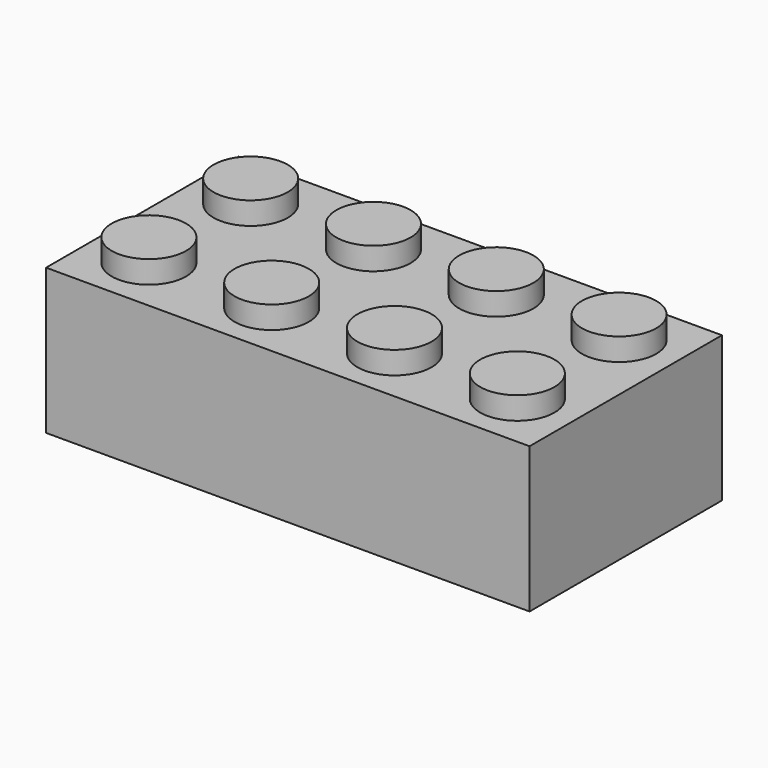
from build123d import *

# Parameters (mm, degrees)
F0_W     = 31.77
F0_H     = 15.8
F0_R     = 3.215
F0_R_2   = 2.325
F1_DEPTH = 9.56
F2_DEPTH = 8.39
F3_DEPTH = 1.17
F4_R     = 2.44
F5_DEPTH = 1.48


with BuildPart() as f1:
    # F0 (on Top) → F1 (new body)
    with BuildSketch(Plane.XY):
        with Locations((2.730887816, 14.921668646)):
            Rectangle(F0_W, F0_H)
        Polygon((2.360887816, 8.191668646), (-11.984112184, 8.191668646), (-11.984112184, 21.651668646), (2.360887816, 21.651668646), (3.100887816, 21.651668646), (17.445887816, 21.651668646), (17.445887816, 8.191668646), (3.100887816, 8.191668646), align=None, mode=Mode.SUBTRACT)
        with BuildLine():
            Line((-11.984112184, 21.651668646), (-11.984112184, 8.191668646))
            Line((-11.984112184, 8.191668646), (2.360887816, 8.191668646))
            Line((2.360887816, 8.191668646), (2.360887816, 11.7230304386))
            ThreePointArc((2.360887816, 11.7230304386), (-0.484112184, 14.916668646), (2.360887816, 18.1103068535))
            Line((2.360887816, 18.1103068535), (2.360887816, 21.651668646))
            Line((2.360887816, 21.651668646), (-11.984112184, 21.651668646))
        make_face()
        with Locations((-5.239112184, 14.916668646)):
            Circle(F0_R, mode=Mode.SUBTRACT)
        with BuildLine():
            Line((3.100887816, 11.7230304386), (3.100887816, 8.191668646))
            Line((3.100887816, 8.191668646), (17.445887816, 8.191668646))
            Line((17.445887816, 8.191668646), (17.445887816, 21.651668646))
            Line((17.445887816, 21.651668646), (3.100887816, 21.651668646))
            Line((3.100887816, 21.651668646), (3.100887816, 18.1103068535))
            ThreePointArc((3.100887816, 18.1103068535), (5.1314893031, 17.0552049445), (5.945887816, 14.916668646))
            ThreePointArc((5.945887816, 14.916668646), (5.1314893031, 12.7781323475), (3.100887816, 11.7230304386))
        make_face()
        with Locations((10.700887816, 14.916668646)):
            Circle(F0_R, mode=Mode.SUBTRACT)
        with BuildLine():
            ThreePointArc((2.360887816, 18.1103068535), (-0.484112184, 14.916668646), (2.360887816, 11.7230304386))
            ThreePointArc((2.360887816, 11.7230304386), (2.730887816, 11.701668646), (3.100887816, 11.7230304386))
            ThreePointArc((3.100887816, 11.7230304386), (5.1314893031, 12.7781323475), (5.945887816, 14.916668646))
            ThreePointArc((5.945887816, 14.916668646), (5.1314893031, 17.0552049445), (3.100887816, 18.1103068535))
            ThreePointArc((3.100887816, 18.1103068535), (2.730887816, 18.131668646), (2.360887816, 18.1103068535))
        make_face()
        with Locations((2.730887816, 14.916668646)):
            Circle(F0_R_2, mode=Mode.SUBTRACT)
        with Locations((10.700887816, 14.916668646)):
            Circle(F0_R)
        with Locations((10.700887816, 14.916668646)):
            Circle(F0_R_2, mode=Mode.SUBTRACT)
        with Locations((-5.239112184, 14.916668646)):
            Circle(F0_R)
        with Locations((-5.239112184, 14.916668646)):
            Circle(F0_R_2, mode=Mode.SUBTRACT)
        with Locations((10.700887816, 14.916668646)):
            Circle(F0_R_2)
        with Locations((-5.239112184, 14.916668646)):
            Circle(F0_R_2)
        with Locations((2.730887816, 14.916668646)):
            Circle(F0_R_2)
        with BuildLine():
            Line((3.100887816, 21.651668646), (2.360887816, 21.651668646))
            Line((2.360887816, 21.651668646), (2.360887816, 18.1103068535))
            ThreePointArc((2.360887816, 18.1103068535), (2.730887816, 18.131668646), (3.100887816, 18.1103068535))
            Line((3.100887816, 18.1103068535), (3.100887816, 21.651668646))
        make_face()
        with BuildLine():
            Line((2.360887816, 11.7230304386), (2.360887816, 8.191668646))
            Line((2.360887816, 8.191668646), (3.100887816, 8.191668646))
            Line((3.100887816, 8.191668646), (3.100887816, 11.7230304386))
            ThreePointArc((3.100887816, 11.7230304386), (2.730887816, 11.701668646), (2.360887816, 11.7230304386))
        make_face()
    extrude(amount=F1_DEPTH)

    # F0 (on Top) → F2 (cut)
    with BuildSketch(Plane.XY):
        with BuildLine():
            Line((-11.984112184, 21.651668646), (-11.984112184, 8.191668646))
            Line((-11.984112184, 8.191668646), (2.360887816, 8.191668646))
            Line((2.360887816, 8.191668646), (2.360887816, 11.7230304386))
            ThreePointArc((2.360887816, 11.7230304386), (-0.484112184, 14.916668646), (2.360887816, 18.1103068535))
            Line((2.360887816, 18.1103068535), (2.360887816, 21.651668646))
            Line((2.360887816, 21.651668646), (-11.984112184, 21.651668646))
        make_face()
        with Locations((-5.239112184, 14.916668646)):
            Circle(F0_R, mode=Mode.SUBTRACT)
        with BuildLine():
            Line((3.100887816, 11.7230304386), (3.100887816, 8.191668646))
            Line((3.100887816, 8.191668646), (17.445887816, 8.191668646))
            Line((17.445887816, 8.191668646), (17.445887816, 21.651668646))
            Line((17.445887816, 21.651668646), (3.100887816, 21.651668646))
            Line((3.100887816, 21.651668646), (3.100887816, 18.1103068535))
            ThreePointArc((3.100887816, 18.1103068535), (5.1314893031, 17.0552049445), (5.945887816, 14.916668646))
            ThreePointArc((5.945887816, 14.916668646), (5.1314893031, 12.7781323475), (3.100887816, 11.7230304386))
        make_face()
        with Locations((10.700887816, 14.916668646)):
            Circle(F0_R, mode=Mode.SUBTRACT)
        with Locations((10.700887816, 14.916668646)):
            Circle(F0_R_2)
        with Locations((2.730887816, 14.916668646)):
            Circle(F0_R_2)
        with Locations((-5.239112184, 14.916668646)):
            Circle(F0_R_2)
    extrude(amount=F2_DEPTH, mode=Mode.SUBTRACT)

    # F0 (on Top) → F3 (cut)
    with BuildSketch(Plane.XY):
        with BuildLine():
            Line((2.360887816, 11.7230304386), (2.360887816, 8.191668646))
            Line((2.360887816, 8.191668646), (3.100887816, 8.191668646))
            Line((3.100887816, 8.191668646), (3.100887816, 11.7230304386))
            ThreePointArc((3.100887816, 11.7230304386), (2.730887816, 11.701668646), (2.360887816, 11.7230304386))
        make_face()
        with BuildLine():
            Line((3.100887816, 21.651668646), (2.360887816, 21.651668646))
            Line((2.360887816, 21.651668646), (2.360887816, 18.1103068535))
            ThreePointArc((2.360887816, 18.1103068535), (2.730887816, 18.131668646), (3.100887816, 18.1103068535))
            Line((3.100887816, 18.1103068535), (3.100887816, 21.651668646))
        make_face()
    extrude(amount=F3_DEPTH, mode=Mode.SUBTRACT)

    # F4 (on face) → F5 (join)
    with BuildSketch(Plane.XY.offset(9.56)):
        with Locations((-9.374112184, 19.101668646)):
            Circle(F4_R)
        with Locations((-9.374112184, 10.741668646)):
            Circle(F4_R)
        with Locations((-1.304112184, 19.101668646)):
            Circle(F4_R)
        with Locations((-1.304112184, 10.741668646)):
            Circle(F4_R)
        with Locations((6.765887816, 19.101668646)):
            Circle(F4_R)
        with Locations((6.765887816, 10.741668646)):
            Circle(F4_R)
        with Locations((14.835887816, 19.101668646)):
            Circle(F4_R)
        with Locations((14.835887816, 10.741668646)):
            Circle(F4_R)
    extrude(amount=F5_DEPTH)


with BuildPart() as f6_1:
    # F6: copy of F1
    add(f1.part)


solid = Compound([f1.part, f6_1.part])
